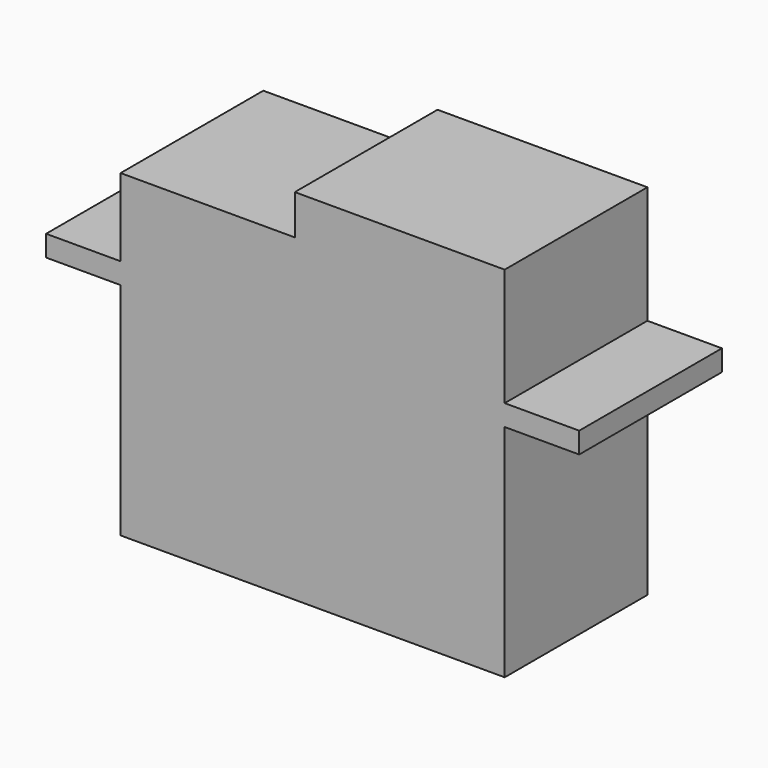
from build123d import *

# Parameters (mm, degrees)
F0_W     = 18.3
F0_H     = 10.5
F0_W_2   = 10
F0_H_2   = 1.9
F0_W_3   = 3.55
F0_H_3   = 1
F1_DEPTH = 8.5


with BuildPart() as f1:
    # F0 (on Front) → F1 (new body)
    with BuildSketch(Plane.XZ):
        with Locations((9.15, -5.25)):
            Rectangle(F0_W, F0_H)
        Polygon((8.3, 4.7), (0, 4.7), (0, 1), (18.3, 1), (18.3, 4.7), align=None)
        with Locations((13.3, 5.65)):
            Rectangle(F0_W_2, F0_H_2)
        with Locations((-1.775, 0.5)):
            Rectangle(F0_W_3, F0_H_3)
        with Locations((9.15, 0.5)):
            Rectangle(F0_W, F0_H_3)
        with Locations((20.075, 0.5)):
            Rectangle(F0_W_3, F0_H_3)
    extrude(amount=F1_DEPTH)


solid = f1.part
